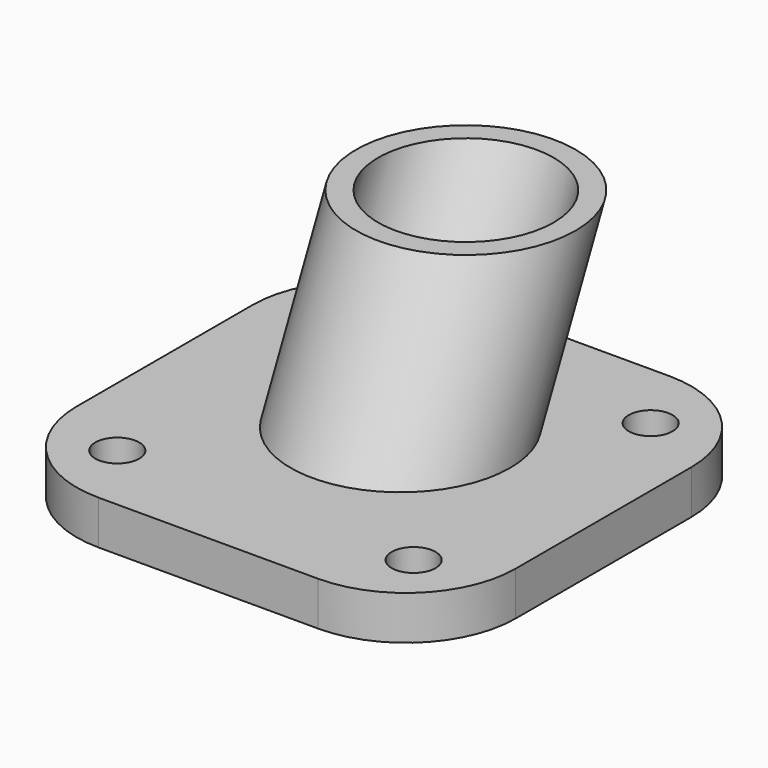
from build123d import *

# Parameters (mm, degrees)
F0_R     = 1
F0_R_2   = 5
F0_R_3   = 4
F1_DEPTH = 2


with BuildPart() as f1:
    # F0 (on Top) → F1 (new body)
    with BuildSketch(Plane.XY):
        with BuildLine():
            Line((5, 10), (-5, 10))
            ThreePointArc((-5, 10), (-8.535534, 8.535534), (-10, 5))
            Line((-10, 5), (-10, -5))
            ThreePointArc((-10, -5), (-8.535534, -8.535534), (-5, -10))
            Line((-5, -10), (5, -10))
            ThreePointArc((5, -10), (8.535534, -8.535534), (10, -5))
            Line((10, -5), (10, 5))
            ThreePointArc((10, 5), (8.535534, 8.535534), (5, 10))
        make_face()
        with Locations((-6.75, -6.75)):
            Circle(F0_R, mode=Mode.SUBTRACT)
        with Locations((6.75, -6.75)):
            Circle(F0_R, mode=Mode.SUBTRACT)
        with Locations((-6.75, 6.75)):
            Circle(F0_R, mode=Mode.SUBTRACT)
        Circle(F0_R_2, mode=Mode.SUBTRACT)
        with Locations((6.75, 6.75)):
            Circle(F0_R, mode=Mode.SUBTRACT)
        Circle(F0_R_2)
        Circle(F0_R_3, mode=Mode.SUBTRACT)
        Circle(F0_R_3)
    extrude(amount=F1_DEPTH)

    # F3: sweep along a path in F2
    with BuildLine(Plane.YZ) as f3_path:
        Line((4, 0), (8.663077, 10))
    # F0 (on Top) → F3 (sweep)
    with BuildSketch(Plane.XY):
        Circle(F0_R_2)
        Circle(F0_R_3, mode=Mode.SUBTRACT)
        Circle(F0_R_3)
    sweep(path=f3_path.line)

    # F4: sweep along a path in F2
    with BuildLine(Plane.YZ) as f4_path:
        Line((4, 0), (8.663077, 10))
    # F0 (on Top) → F4 (sweep, cut)
    with BuildSketch(Plane.XY):
        Circle(F0_R_3)
    sweep(path=f4_path.line, mode=Mode.SUBTRACT)


solid = f1.part
